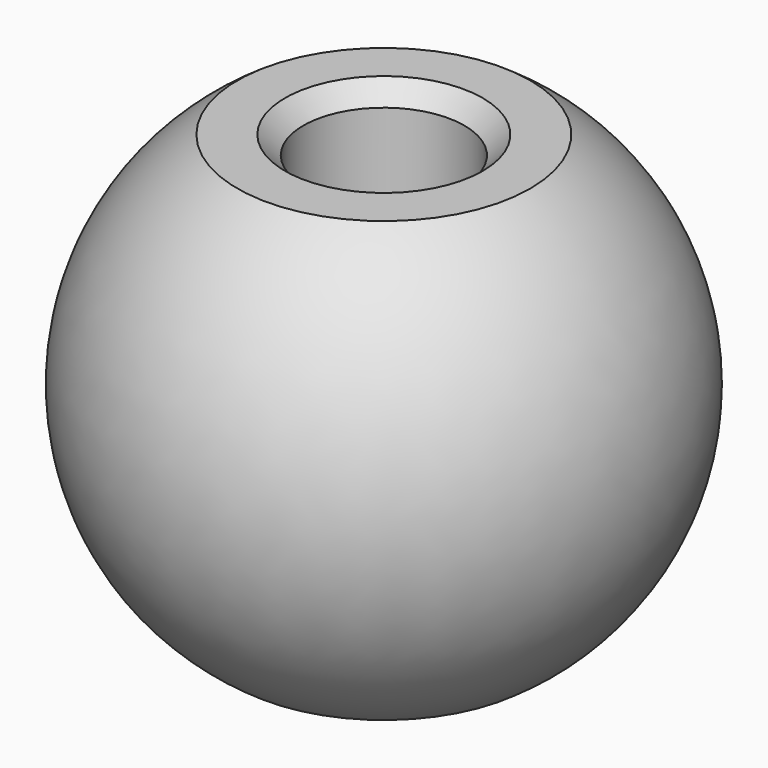
from build123d import *

# Parameters (mm, degrees)
F2_SIZE = 0.5


with BuildPart() as f1:
    # F0 (on Front) → F1 (revolve)
    with BuildSketch(Plane.XZ):
        with BuildLine():
            Line((2.2, 12), (2.2, 0))
            Line((2.2, 0), (4, 0))
            ThreePointArc((4, 0), (7.211103, 6), (4, 12))
            Line((4, 12), (2.2, 12))
        make_face()
    revolve(axis=Axis((0, 0, 6), (0, 0, 1)))

    # F2
    f2_edges = [f1.edges().sort_by_distance(p)[0] for p in [
        (-2.2, 0, 12),
        (-2.2, 0, 0),
    ]]
    chamfer(f2_edges, length=F2_SIZE)


solid = f1.part
